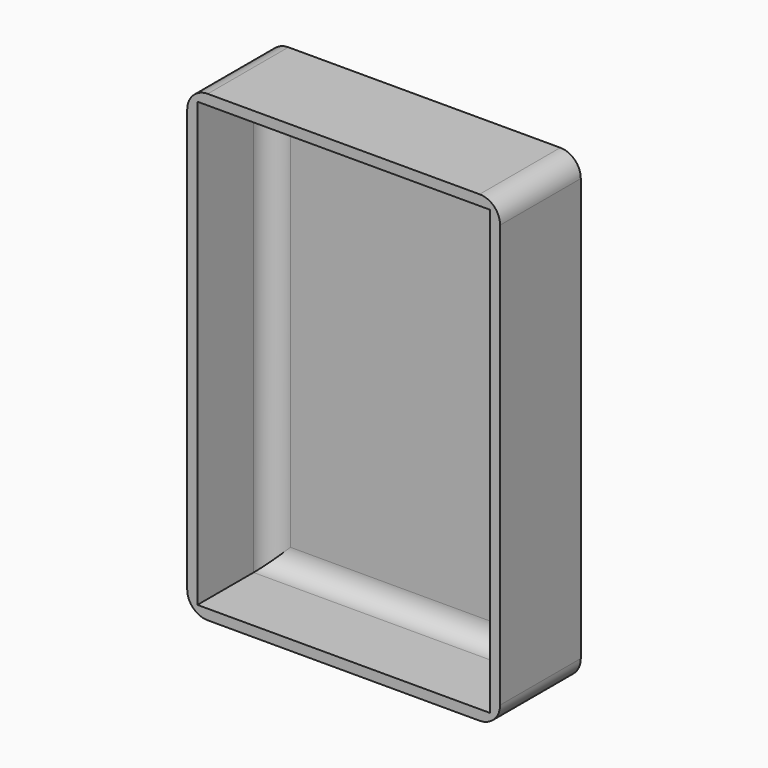
from build123d import *

# Parameters (mm, degrees)
F0_W     = 77.5562152267
F0_H     = 114.8829683661
F1_DEPTH = 12.5
F2_T     = -2.54
F3_R     = 5.08
F4_R     = 5.08


with BuildPart() as f1:
    # F0 (on Front) → F1 (new body, symmetric)
    with BuildSketch(Plane.XZ):
        Rectangle(F0_W, F0_H)
    extrude(amount=F1_DEPTH, both=True)

    # F2
    f2_openings = [f1.faces().sort_by_distance(p)[0] for p in [
        (0, -12.5, 0),
    ]]
    offset(amount=F2_T, openings=f2_openings)

    # F3
    f3_edges = [f1.edges().sort_by_distance(p)[0] for p in [
        (0, 9.96, -54.901484),
        (36.238108, 9.96, 0),
        (0, 9.96, 54.901484),
        (-36.238108, 9.96, 0),
    ]]
    fillet(f3_edges, radius=F3_R)

    # F4
    f4_edges = [f1.edges().sort_by_distance(p)[0] for p in [
        (-38.778108, 0, 57.441484),
        (38.778108, 0, 57.441484),
        (38.778108, 0, -57.441484),
        (-38.778108, 0, -57.441484),
    ]]
    fillet(f4_edges, radius=F4_R)


solid = f1.part
